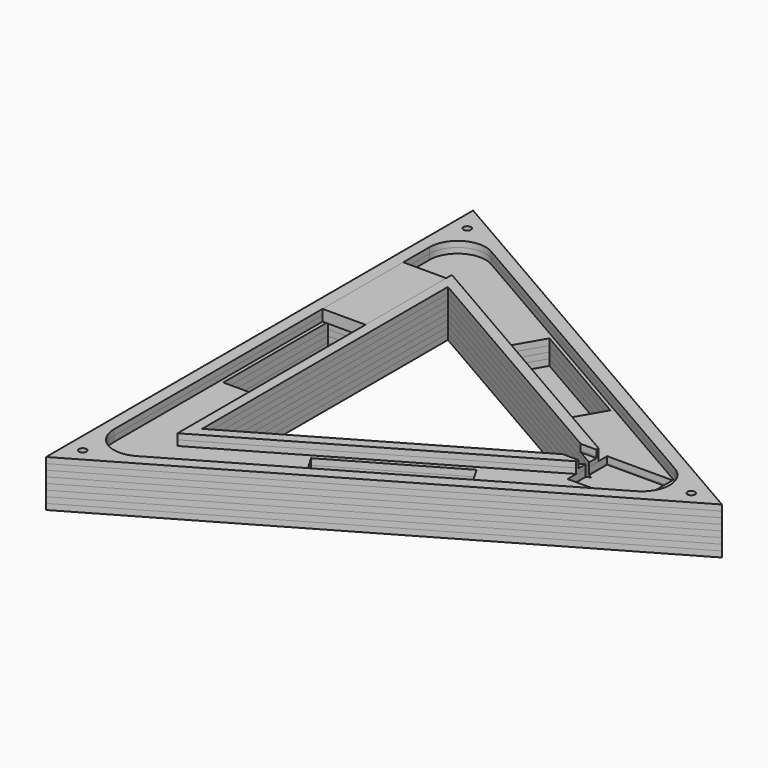
from build123d import *

# Parameters (mm, degrees)
BOX005_W                = 23
BOX005_H                = 54
BOX005_DEPTH            = 6
BOX_BOTTOM_HALF_3_W     = 249.5
BOX_BOTTOM_HALF_3_H     = 287.788383
BOX_BOTTOM_HALF_3_DEPTH = 4.125
BOX_BOTTOM_HALF_1_W     = 249.5
BOX_BOTTOM_HALF_1_H     = 287.788383
BOX_BOTTOM_HALF_1_DEPTH = 7.25
BOX_BOTTOM_HALF_0_W     = 249.5
BOX_BOTTOM_HALF_0_H     = 287.788383
BOX_BOTTOM_HALF_0_DEPTH = 13.5
PRISM003_DEPTH          = 6
PRISM002_DEPTH          = 6
BOX004_W                = 10
BOX004_H                = 12
BOX004_DEPTH            = 4
BOX003_W                = 35
BOX003_H                = 26.5
BOX003_DEPTH            = 10
BOX002_W                = 70
BOX002_H                = 19
BOX002_DEPTH            = 19
BOX002_PLACEMENT_ANGLE  = 30
BOX001_W                = 70
BOX001_H                = 19
BOX001_DEPTH            = 19
BOX001_PLACEMENT_ANGLE  = 90
BOX_W                   = 70
BOX_H                   = 19
BOX_DEPTH               = 19
BOX_PLACEMENT_ANGLE     = 30
PRISM001_DEPTH          = 25
PRISM_DEPTH             = 25
FILLET_R                = 15
SKETCH001_R             = 2
POCKET_DEPTH            = 782.777352
POLARPATTERN_COUNT      = 3
POCKET001_DEPTH         = 3
BOX_BOTTOM_HALF_4_W     = 249.5
BOX_BOTTOM_HALF_4_H     = 287.788383
BOX_BOTTOM_HALF_4_DEPTH = 4.125
BOX_BOTTOM_HALF_5_W     = 249.5
BOX_BOTTOM_HALF_5_H     = 287.788383
BOX_BOTTOM_HALF_5_DEPTH = 4.125
BOX_BOTTOM_HALF_2_W     = 249.5
BOX_BOTTOM_HALF_2_H     = 287.788383
BOX_BOTTOM_HALF_2_DEPTH = 7.25
BOX_BOTTOM_HALF_6_W     = 249.5
BOX_BOTTOM_HALF_6_H     = 287.788383
BOX_BOTTOM_HALF_6_DEPTH = 4.125


with BuildPart() as box005:
    # Box005 → Box005 (new body)
    with BuildSketch(Plane(origin=(-76, 34, 13), x_dir=(1, 0, 0), z_dir=(0, 0, 1))):
        with Locations((11.5, 27)):
            Rectangle(BOX005_W, BOX005_H)
    extrude(amount=BOX005_DEPTH)


with BuildPart() as box_bottom_half_3_body:
    # box_bottom_half_3 → box_bottom_half_3 (new body)
    with BuildSketch(Plane(origin=(-83.5, -143.894192, -7), x_dir=(1, 0, 0), z_dir=(0, 0, 1))):
        with Locations((124.75, 143.894192)):
            Rectangle(BOX_BOTTOM_HALF_3_W, BOX_BOTTOM_HALF_3_H)
    extrude(amount=BOX_BOTTOM_HALF_3_DEPTH)


with BuildPart() as box_bottom_half_1_body:
    # box_bottom_half_1 → box_bottom_half_1 (new body)
    with BuildSketch(Plane(origin=(-83.5, -143.894192, -7), x_dir=(1, 0, 0), z_dir=(0, 0, 1))):
        with Locations((124.75, 143.894192)):
            Rectangle(BOX_BOTTOM_HALF_1_W, BOX_BOTTOM_HALF_1_H)
    extrude(amount=BOX_BOTTOM_HALF_1_DEPTH)


with BuildPart() as box_bottom_half_0_body:
    # box_bottom_half_0 → box_bottom_half_0 (new body)
    with BuildSketch(Plane(origin=(-83.5, -143.894192, -7), x_dir=(1, 0, 0), z_dir=(0, 0, 1))):
        with Locations((124.75, 143.894192)):
            Rectangle(BOX_BOTTOM_HALF_0_W, BOX_BOTTOM_HALF_0_H)
    extrude(amount=BOX_BOTTOM_HALF_0_DEPTH)


with BuildPart() as prism003:
    # Prism003 → Prism003 (new body)
    with BuildSketch(Plane.XY.offset(13)):
        Polygon((106, 0), (-53, 91.798693), (-53, -91.798693), align=None)
    extrude(amount=PRISM003_DEPTH)


with BuildPart() as cut006:
    # Prism002 → Prism002 (new body)
    with BuildSketch(Plane.XY.offset(13)):
        Polygon((152, 0), (-76, 131.635861), (-76, -131.635861), align=None)
    extrude(amount=PRISM002_DEPTH)

    # Cut006: cut Prism003
    add(prism003.part, mode=Mode.SUBTRACT)


with BuildPart() as box004:
    # Box004 → Box004 (new body)
    with BuildSketch(Plane(origin=(84, -6, 15), x_dir=(1, 0, 0), z_dir=(0, 0, 1))):
        with Locations((5, 6)):
            Rectangle(BOX004_W, BOX004_H)
    extrude(amount=BOX004_DEPTH)


with BuildPart() as box003:
    # Box003 → Box003 (new body)
    with BuildSketch(Plane(origin=(93, -13.3, 9), x_dir=(1, 0, 0), z_dir=(0, 0, 1))):
        with Locations((17.5, 13.25)):
            Rectangle(BOX003_W, BOX003_H)
    extrude(amount=BOX003_DEPTH)


with BuildPart() as box002:
    # Box002 → Box002 (new body)
    with BuildSketch(Plane.XY):
        with Locations((35, 9.5)):
            Rectangle(BOX002_W, BOX002_H)
    extrude(amount=BOX002_DEPTH)


with BuildPart() as box002_1:
    # Box002 placement: moved
    add(box002.part.moved(Location((7, -82, 0))).rotate(Axis((7, -82, 0), (0, 0, 1)), BOX002_PLACEMENT_ANGLE))


with BuildPart() as box001:
    # Box001 → Box001 (new body)
    with BuildSketch(Plane.XY):
        with Locations((35, 9.5)):
            Rectangle(BOX001_W, BOX001_H)
    extrude(amount=BOX001_DEPTH)


with BuildPart() as box001_1:
    # Box001 placement: moved
    add(box001.part.moved(Location((-55, -35, 0))).rotate(Axis((-55, -35, 0), (0, 0, 1)), BOX001_PLACEMENT_ANGLE))


with BuildPart() as box:
    # Box → Box (new body)
    with BuildSketch(Plane.XY):
        with Locations((35, 9.5)):
            Rectangle(BOX_W, BOX_H)
    extrude(amount=BOX_DEPTH)


with BuildPart() as box_1:
    # Box placement: moved
    add(box.part.moved(Location((-2, 65, 0))).rotate(Axis((-2, 65, 0), (0, 0, -1)), BOX_PLACEMENT_ANGLE))


with BuildPart() as prism001:
    # Prism001 → Prism001 (new body)
    with BuildSketch(Plane.XY.offset(-6)):
        Polygon((95, 0), (-47.5, 82.272413), (-47.5, -82.272413), align=None)
    extrude(amount=PRISM001_DEPTH)


with BuildPart() as body:
    # Prism → Prism (new body)
    with BuildSketch(Plane.XY.offset(-6)):
        Polygon((165, 0), (-82.5, 142.894192), (-82.5, -142.894192), align=None)
    extrude(amount=PRISM_DEPTH)

    # Cut: cut Prism001
    add(prism001.part, mode=Mode.SUBTRACT)

    # Cut001: cut Box
    add(box_1.part, mode=Mode.SUBTRACT)

    # Cut002: cut Box001
    add(box001_1.part, mode=Mode.SUBTRACT)

    # Cut003: cut Box002
    add(box002_1.part, mode=Mode.SUBTRACT)

    # Cut004: cut Box003
    add(box003.part, mode=Mode.SUBTRACT)

    # Cut005: cut Box004
    add(box004.part, mode=Mode.SUBTRACT)

    # Cut007: cut Cut006
    add(cut006.part, mode=Mode.SUBTRACT)

    # Fillet
    fillet_edges = [body.edges().sort_by_distance(p)[0] for p in [
        (152, 0, 16),
        (-76, 131.635861, 16),
        (-76, -131.635861, 16),
    ]]
    fillet(fillet_edges, radius=FILLET_R)

    # Sketch001 (on Face1 of BaseFeature) → Pocket (cut, through all)
    with BuildSketch(Plane.XY.offset(19)):
        with Locations((148.549835, 0)):
            Circle(SKETCH001_R)
    pocket = extrude(amount=-POCKET_DEPTH, mode=Mode.SUBTRACT)

    # PolarPattern: Pocket ×3 about axis
    polarpattern_axis = Axis((0, 0, 19), (0, 0, 1))
    for i in range(1, POLARPATTERN_COUNT):
        add(pocket.rotate(polarpattern_axis, i * 360 / POLARPATTERN_COUNT), mode=Mode.SUBTRACT)

    # Sketch003 (on Face14 of PolarPattern) → Pocket001 (cut)
    with BuildSketch(Plane(origin=(0, 0, -6), x_dir=(1, 0, 0), z_dir=(0, 0, -1))):
        Polygon((-70.5, 122.109582), (141, 0), (-70.5, -122.109582), align=None)
        Polygon((-59.5, -103.057023), (-59.5, 103.057023), (119, 0), align=None, mode=Mode.SUBTRACT)
    extrude(amount=-POCKET001_DEPTH, mode=Mode.SUBTRACT)


with BuildPart() as bottom_half_0_body:
    # bottom_half_0 base: copy of Body
    add(body.part)

    # bottom_half_0: intersect box_bottom_half_0 body
    add(box_bottom_half_0_body.part, mode=Mode.INTERSECT)


with BuildPart() as bottom_half_1_body:
    # bottom_half_1 base: copy of bottom_half_0 body
    add(bottom_half_0_body.part)

    # bottom_half_1: intersect box_bottom_half_1 body
    add(box_bottom_half_1_body.part, mode=Mode.INTERSECT)


with BuildPart() as bottom_half_3_body:
    # bottom_half_3 base: copy of bottom_half_1 body
    add(bottom_half_1_body.part)

    # bottom_half_3: intersect box_bottom_half_3 body
    add(box_bottom_half_3_body.part, mode=Mode.INTERSECT)


with BuildPart() as top_half_3_body:
    # top_half_3 base: copy of bottom_half_1 body
    add(bottom_half_1_body.part)

    # top_half_3: cut box_bottom_half_3 body
    add(box_bottom_half_3_body.part, mode=Mode.SUBTRACT)


with BuildPart() as box_bottom_half_4_body:
    # box_bottom_half_4 → box_bottom_half_4 (new body)
    with BuildSketch(Plane(origin=(-83.5, -143.894192, -0.75), x_dir=(1, 0, 0), z_dir=(0, 0, 1))):
        with Locations((124.75, 143.894192)):
            Rectangle(BOX_BOTTOM_HALF_4_W, BOX_BOTTOM_HALF_4_H)
    extrude(amount=BOX_BOTTOM_HALF_4_DEPTH)


with BuildPart() as top_half_1_body:
    # top_half_1 base: copy of bottom_half_0 body
    add(bottom_half_0_body.part)

    # top_half_1: cut box_bottom_half_1 body
    add(box_bottom_half_1_body.part, mode=Mode.SUBTRACT)


with BuildPart() as bottom_half_4_body:
    # bottom_half_4 base: copy of top_half_1 body
    add(top_half_1_body.part)

    # bottom_half_4: intersect box_bottom_half_4 body
    add(box_bottom_half_4_body.part, mode=Mode.INTERSECT)


with BuildPart() as top_half_4_body:
    # top_half_4 base: copy of top_half_1 body
    add(top_half_1_body.part)

    # top_half_4: cut box_bottom_half_4 body
    add(box_bottom_half_4_body.part, mode=Mode.SUBTRACT)


with BuildPart() as box_bottom_half_5_body:
    # box_bottom_half_5 → box_bottom_half_5 (new body)
    with BuildSketch(Plane(origin=(-83.5, -143.894192, 5.5), x_dir=(1, 0, 0), z_dir=(0, 0, 1))):
        with Locations((124.75, 143.894192)):
            Rectangle(BOX_BOTTOM_HALF_5_W, BOX_BOTTOM_HALF_5_H)
    extrude(amount=BOX_BOTTOM_HALF_5_DEPTH)


with BuildPart() as box_bottom_half_2_body:
    # box_bottom_half_2 → box_bottom_half_2 (new body)
    with BuildSketch(Plane(origin=(-83.5, -143.894192, 5.5), x_dir=(1, 0, 0), z_dir=(0, 0, 1))):
        with Locations((124.75, 143.894192)):
            Rectangle(BOX_BOTTOM_HALF_2_W, BOX_BOTTOM_HALF_2_H)
    extrude(amount=BOX_BOTTOM_HALF_2_DEPTH)


with BuildPart() as top_half_0_body:
    # top_half_0 base: copy of Body
    add(body.part)

    # top_half_0: cut box_bottom_half_0 body
    add(box_bottom_half_0_body.part, mode=Mode.SUBTRACT)


with BuildPart() as bottom_half_2_body:
    # bottom_half_2 base: copy of top_half_0 body
    add(top_half_0_body.part)

    # bottom_half_2: intersect box_bottom_half_2 body
    add(box_bottom_half_2_body.part, mode=Mode.INTERSECT)


with BuildPart() as bottom_half_5_body:
    # bottom_half_5 base: copy of bottom_half_2 body
    add(bottom_half_2_body.part)

    # bottom_half_5: intersect box_bottom_half_5 body
    add(box_bottom_half_5_body.part, mode=Mode.INTERSECT)


with BuildPart() as top_half_5_body:
    # top_half_5 base: copy of bottom_half_2 body
    add(bottom_half_2_body.part)

    # top_half_5: cut box_bottom_half_5 body
    add(box_bottom_half_5_body.part, mode=Mode.SUBTRACT)


with BuildPart() as box_bottom_half_6_body:
    # box_bottom_half_6 → box_bottom_half_6 (new body)
    with BuildSketch(Plane(origin=(-83.5, -143.894192, 11.75), x_dir=(1, 0, 0), z_dir=(0, 0, 1))):
        with Locations((124.75, 143.894192)):
            Rectangle(BOX_BOTTOM_HALF_6_W, BOX_BOTTOM_HALF_6_H)
    extrude(amount=BOX_BOTTOM_HALF_6_DEPTH)


with BuildPart() as top_half_2_body:
    # top_half_2 base: copy of top_half_0 body
    add(top_half_0_body.part)

    # top_half_2: cut box_bottom_half_2 body
    add(box_bottom_half_2_body.part, mode=Mode.SUBTRACT)


with BuildPart() as bottom_half_6_body:
    # bottom_half_6 base: copy of top_half_2 body
    add(top_half_2_body.part)

    # bottom_half_6: intersect box_bottom_half_6 body
    add(box_bottom_half_6_body.part, mode=Mode.INTERSECT)


with BuildPart() as top_half_6_body:
    # top_half_6 base: copy of top_half_2 body
    add(top_half_2_body.part)

    # top_half_6: cut box_bottom_half_6 body
    add(box_bottom_half_6_body.part, mode=Mode.SUBTRACT)


solid = Compound([box005.part, bottom_half_3_body.part, top_half_3_body.part, bottom_half_4_body.part, top_half_4_body.part, bottom_half_5_body.part, top_half_5_body.part, bottom_half_6_body.part, top_half_6_body.part])
